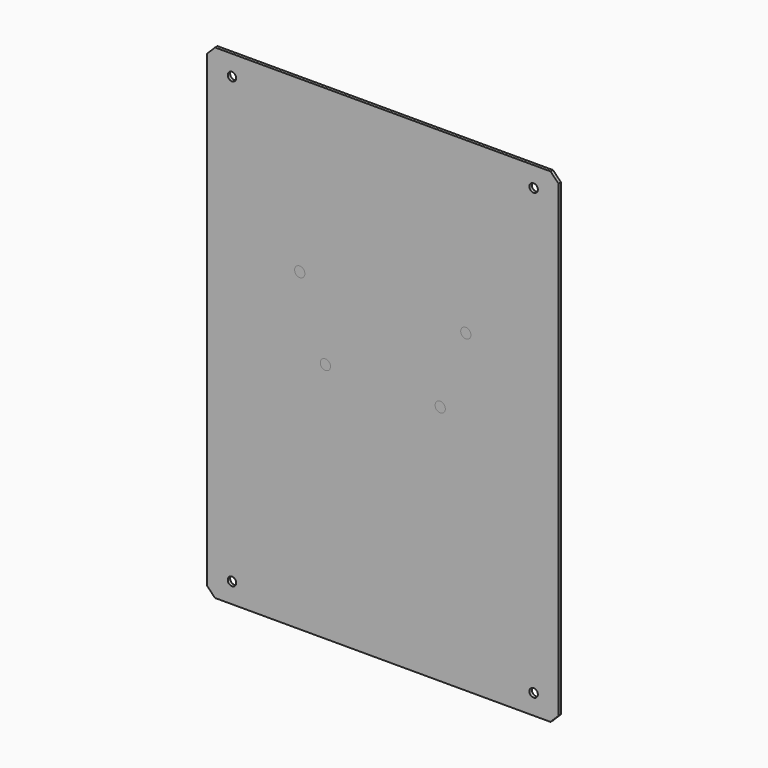
from build123d import *

# Parameters (mm, degrees)
SKETCH_W      = 174.798124
SKETCH_H      = 241
PAD_DEPTH     = 1.5
SKETCH001_R   = 2.1
HOLE_DEPTH    = 1.501
CHAMFER_SIZE  = 4
SKETCH002_R   = 3.5
HOLE001_DEPTH = 25
SKETCH003_R   = 2.55
HOLE002_DEPTH = 1.501


with BuildPart() as obj1:
    # Sketch → Pad (new body)
    with BuildSketch(Plane.XZ):
        with Locations((0, 120.5)):
            Rectangle(SKETCH_W, SKETCH_H)
    extrude(amount=PAD_DEPTH)

    # Sketch001 (on Face6 of Pad) → Hole (cut, through all)
    with BuildSketch(Plane.XZ.offset(1.5)):
        with Locations((-75, 231)):
            Circle(SKETCH001_R)
        with Locations((75, 231)):
            Circle(SKETCH001_R)
        with Locations((-75, 10)):
            Circle(SKETCH001_R)
        with Locations((75, 10)):
            Circle(SKETCH001_R)
    extrude(amount=-HOLE_DEPTH, mode=Mode.SUBTRACT)

    # Chamfer
    chamfer_edges = [obj1.edges().sort_by_distance(p)[0] for p in [
        (87.399062, -0.75, 0),
        (-87.399062, -0.75, 0),
        (-87.399062, -0.75, 241),
        (87.399062, -0.75, 241),
    ]]
    chamfer(chamfer_edges, length=CHAMFER_SIZE)


with BuildPart() as obj2:
    # Body001 base: copy of obj1
    add(obj1.part)

    # Sketch002 (on Face5 of Clone) → Hole001 (cut)
    with BuildSketch(Plane.XZ.offset(1.5)):
        with Locations((-38.1, 230)):
            Circle(SKETCH002_R)
        with Locations((-12.7, 221.5)):
            Circle(SKETCH002_R)
        with Locations((12.7, 221.5)):
            Circle(SKETCH002_R)
        with Locations((38.1, 230)):
            Circle(SKETCH002_R)
    extrude(amount=-HOLE001_DEPTH, mode=Mode.SUBTRACT)


with BuildPart() as obj3:
    # Body002 base: copy of obj1
    add(obj1.part)

    # Sketch003 (on Face5 of Clone001) → Hole002 (cut, through all)
    with BuildSketch(Plane.XZ.offset(1.5)):
        with Locations((-41.3, 156.5)):
            Circle(SKETCH003_R)
        with Locations((41.3, 156.5)):
            Circle(SKETCH003_R)
        with Locations((-28.55, 120)):
            Circle(SKETCH003_R)
        with Locations((28.55, 120)):
            Circle(SKETCH003_R)
    extrude(amount=-HOLE002_DEPTH, mode=Mode.SUBTRACT)


solid = Compound([obj2.part, obj3.part])
